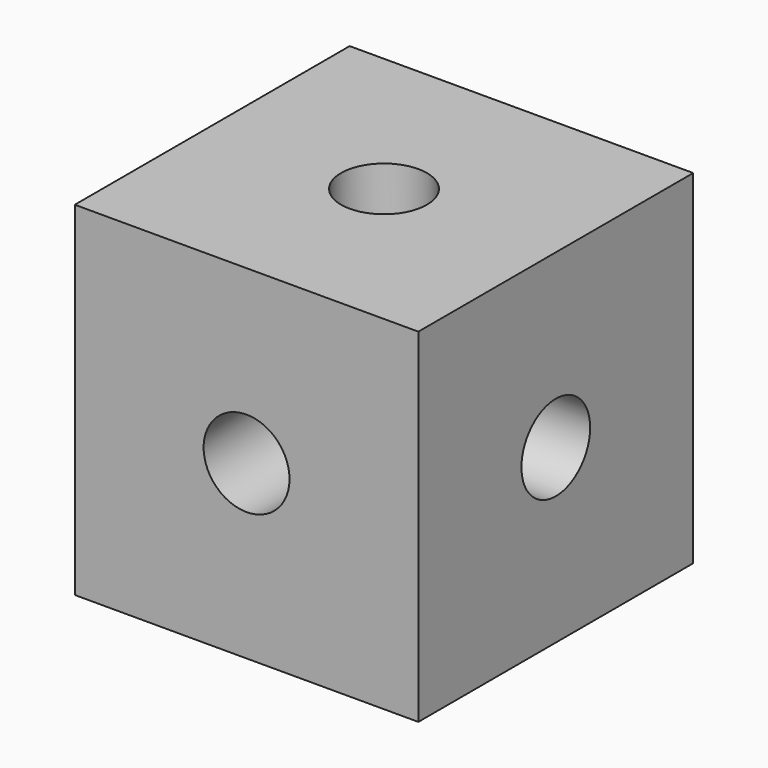
from build123d import *

# Parameters (mm, degrees)
F0_W      = 40
F0_H      = 40
F1_DEPTH  = 40
F2_R      = 5
F3_DEPTH  = 10
F4_R      = 5
F5_DEPTH  = 10
F6_R      = 5
F7_DEPTH  = 10
F8_R      = 5
F9_DEPTH  = 10
F10_R     = 5
F11_DEPTH = 10
F12_R     = 5
F13_DEPTH = 10


with BuildPart() as f1:
    # F0 (on Top) → F1 (new body)
    with BuildSketch(Plane.XY):
        with Locations((20, -20)):
            Rectangle(F0_W, F0_H)
    extrude(amount=F1_DEPTH)

    # F2 (on face) → F3 (cut)
    with BuildSketch(Plane.XY.offset(40)):
        with Locations((20, -20)):
            Circle(F2_R)
    extrude(amount=-F3_DEPTH, mode=Mode.SUBTRACT)

    # F4 (on face) → F5 (cut)
    with BuildSketch(Plane(origin=(0, 0, 0), x_dir=(-1, 0, 0), z_dir=(0, 1, 0))):
        with Locations((-20, 20)):
            Circle(F4_R)
    extrude(amount=-F5_DEPTH, mode=Mode.SUBTRACT)

    # F6 (on face) → F7 (cut)
    with BuildSketch(Plane(origin=(0, 0, 0), x_dir=(1, 0, 0), z_dir=(0, 0, -1))):
        with Locations((20, 20)):
            Circle(F6_R)
    extrude(amount=-F7_DEPTH, mode=Mode.SUBTRACT)

    # F8 (on face) → F9 (cut)
    with BuildSketch(Plane.XZ.offset(40)):
        with Locations((20, 20)):
            Circle(F8_R)
    extrude(amount=-F9_DEPTH, mode=Mode.SUBTRACT)

    # F10 (on face) → F11 (cut)
    with BuildSketch(Plane.YZ.offset(40)):
        with Locations((-20, 20)):
            Circle(F10_R)
    extrude(amount=-F11_DEPTH, mode=Mode.SUBTRACT)

    # F12 (on face) → F13 (cut)
    with BuildSketch(Plane(origin=(0, 0, 0), x_dir=(0, -1, 0), z_dir=(-1, 0, 0))):
        with Locations((20, 20)):
            Circle(F12_R)
    extrude(amount=-F13_DEPTH, mode=Mode.SUBTRACT)


solid = f1.part
